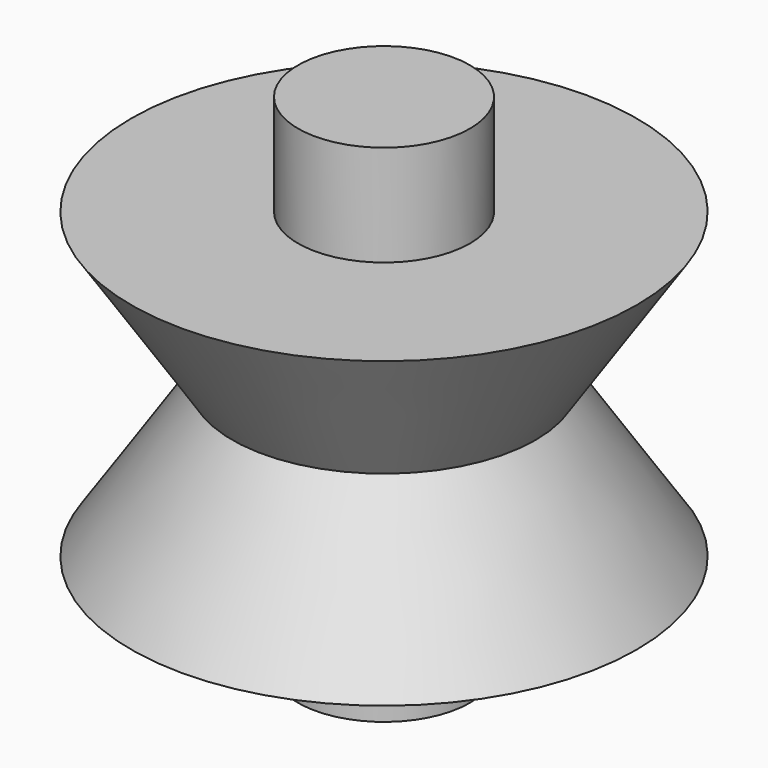
from build123d import *

# Parameters (mm, degrees)
CYLINDER_R     = 1.7
CYLINDER_DEPTH = 10


with BuildPart() as cono:
    # Cone → Cone (revolve)
    with BuildSketch(Plane.XZ):
        Polygon((0, 0), (3, 0), (5, 3), (0, 3), align=None)
    revolve(axis=Axis((0, 0, 0), (0, 0, 1)))


with BuildPart() as fusion:
    # Cone001 → Cone001 (revolve)
    with BuildSketch(Plane(origin=(0, 0, 0), x_dir=(1, 0, 0), z_dir=(0, 1, 0))):
        Polygon((0, 0), (3, 0), (5, 3), (0, 3), align=None)
    revolve(axis=Axis((0, 0, 0), (0, 0, -1)))

    # Fusion: union Cono
    add(cono.part)


with BuildPart() as fusion001:
    # Cylinder → Cylinder (new body)
    with BuildSketch(Plane.XY.offset(-5)):
        Circle(CYLINDER_R)
    extrude(amount=CYLINDER_DEPTH)

    # Fusion001: union Fusion
    add(fusion.part)


solid = fusion001.part
